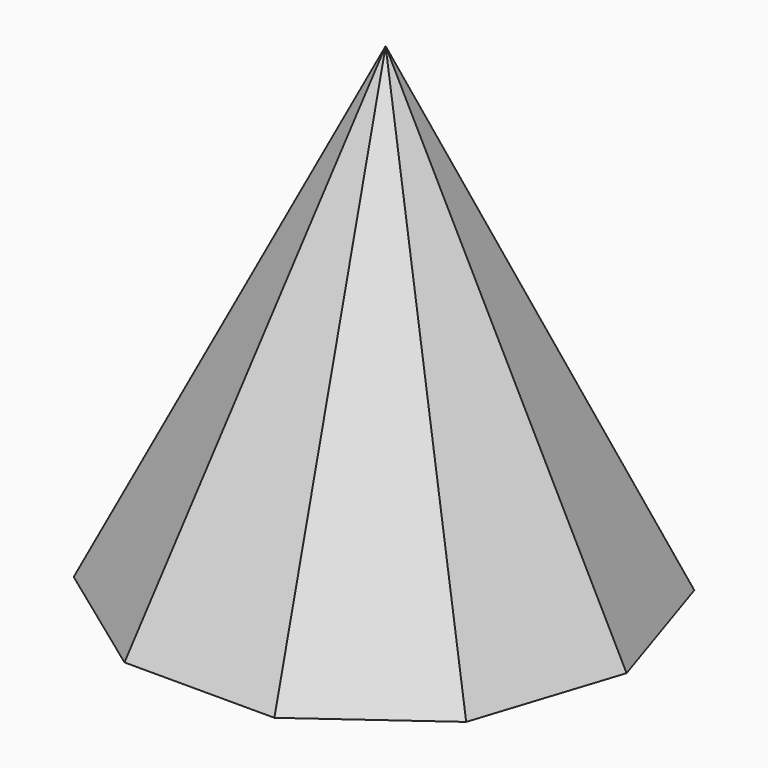
from build123d import *


with BuildPart() as f3:
    # F0 (on Top) → F3 section 0
    with BuildSketch(Plane.XY, mode=Mode.PRIVATE) as f3_s0:
        Polygon((41.545013, -30.184219), (51.35246, 0), (41.545013, 30.184219), (15.868783, 48.839092), (-15.868783, 48.839092), (-41.545013, 30.184219), (-51.35246, 0), (-41.545013, -30.184219), (-15.868783, -48.839092), (15.868783, -48.839092), align=None)
    loft([f3_s0.sketch, Vertex(-3e-06, 0.430328, 100)])


solid = f3.part
